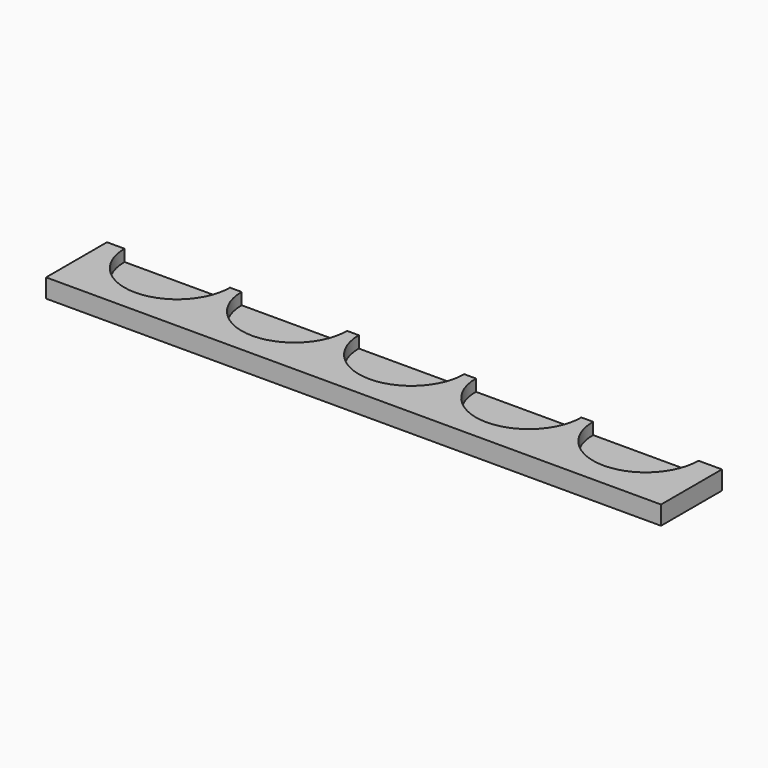
from build123d import *

# Parameters (mm, degrees)
F0_W     = 525
F0_H     = 16
F1_DEPTH = 65
F3_DEPTH = 10


with BuildPart() as f1:
    # F0 (on Front) → F1 (new body)
    with BuildSketch(Plane.XZ):
        Rectangle(F0_W, F0_H)
    extrude(amount=-F1_DEPTH)

    # F2 (on face) → F3 (cut)
    with BuildSketch(Plane.XY.offset(8)):
        with BuildLine():
            Line((-157.5, 65), (-247.5, 65))
            ThreePointArc((-247.5, 65), (-202.5, 20), (-157.5, 65))
        make_face()
        with BuildLine():
            Line((-57.5, 65), (-147.5, 65))
            ThreePointArc((-147.5, 65), (-102.5, 20), (-57.5, 65))
        make_face()
        with BuildLine():
            Line((42.5, 65), (-47.5, 65))
            ThreePointArc((-47.5, 65), (-2.5, 20), (42.5, 65))
        make_face()
        with BuildLine():
            ThreePointArc((52.5, 65), (97.5, 20), (142.5, 65))
            Line((142.5, 65), (52.5, 65))
        make_face()
        with BuildLine():
            ThreePointArc((152.5, 65), (197.5, 20), (242.5, 65))
            Line((242.5, 65), (152.5, 65))
        make_face()
    extrude(amount=-F3_DEPTH, mode=Mode.SUBTRACT)


solid = f1.part
